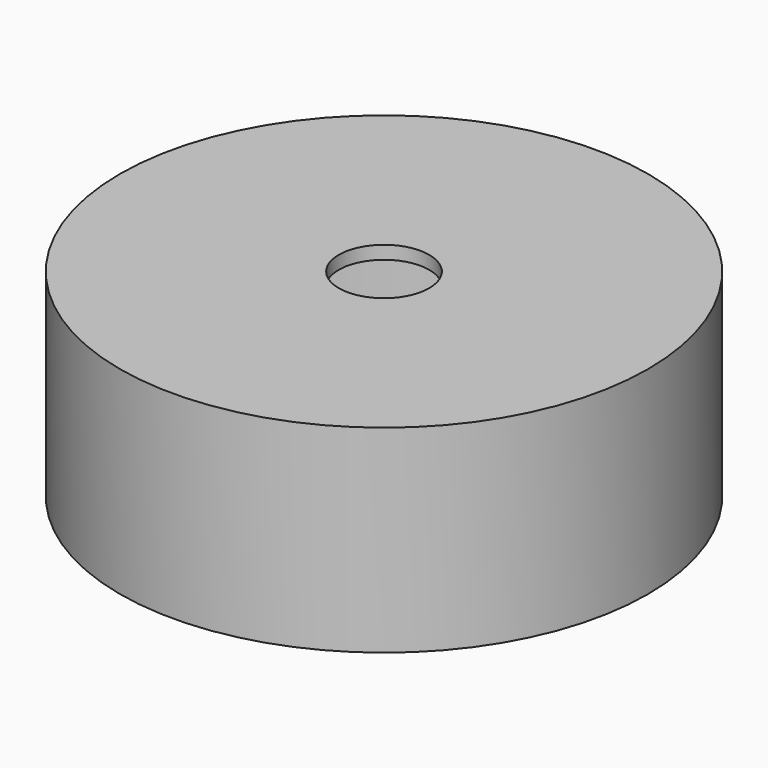
from build123d import *

# Parameters (mm, degrees)
F0_R     = 40
F0_R_2   = 38
F1_DEPTH = 30
F0_R_3   = 35
F0_R_4   = 30
F2_DEPTH = 5
F3_DEPTH = 3
F4_R     = 39.94757
F4_R_2   = 38
F4_R_3   = 6.844731
F5_DEPTH = 2


with BuildPart() as f1:
    # F0 (on Top) → F1 (new body)
    with BuildSketch(Plane.XY):
        with Locations((-34.639411, 27.720276)):
            Circle(F0_R)
        with Locations((-34.639411, 27.720276)):
            Circle(F0_R_2, mode=Mode.SUBTRACT)
    extrude(amount=F1_DEPTH)

    # F0 (on Top) → F2 (join)
    with BuildSketch(Plane.XY):
        with Locations((-34.639411, 27.720276)):
            Circle(F0_R_2)
        with Locations((-34.639411, 27.720276)):
            Circle(F0_R_3, mode=Mode.SUBTRACT)
        with Locations((-34.639411, 27.720276)):
            Circle(F0_R_3)
        with Locations((-34.639411, 27.720276)):
            Circle(F0_R_4, mode=Mode.SUBTRACT)
    extrude(amount=F2_DEPTH)

    # F0 (on Top) → F3 (cut)
    with BuildSketch(Plane.XY):
        with Locations((-34.639411, 27.720276)):
            Circle(F0_R_3)
        with Locations((-34.639411, 27.720276)):
            Circle(F0_R_4, mode=Mode.SUBTRACT)
    extrude(amount=F3_DEPTH, mode=Mode.SUBTRACT)

    # F4 (on face) → F5 (join)
    with BuildSketch(Plane.XY.offset(30)):
        with Locations((-34.639411, 27.720276)):
            Circle(F4_R)
        with Locations((-34.639411, 27.720276)):
            Circle(F4_R_2, mode=Mode.SUBTRACT)
        with Locations((-34.639411, 27.720276)):
            Circle(F4_R_2)
        with Locations((-34.639411, 27.720276)):
            Circle(F4_R_3, mode=Mode.SUBTRACT)
    extrude(amount=-F5_DEPTH)


solid = f1.part
